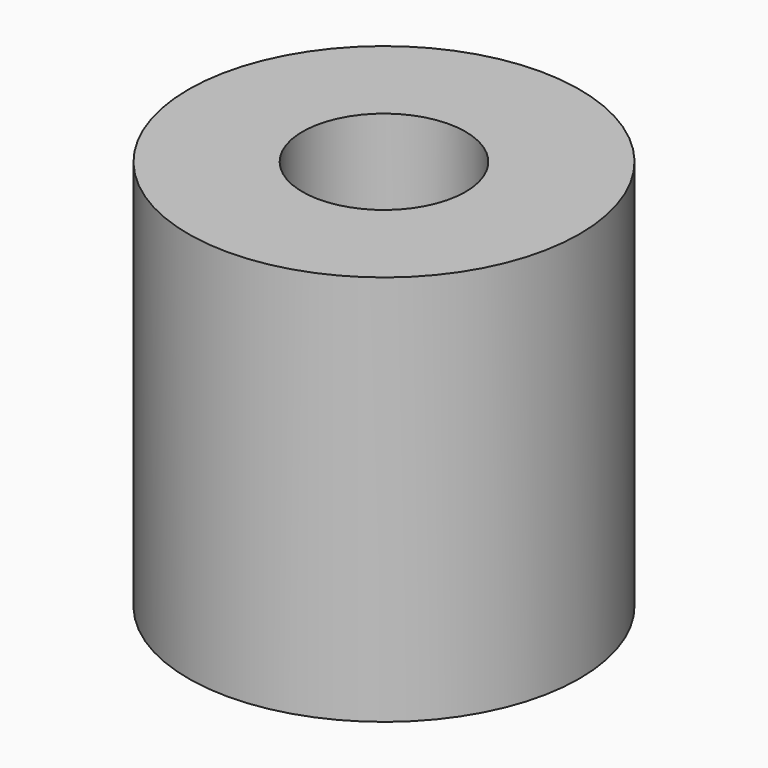
from build123d import *

# Parameters (mm, degrees)
CYLINDER017_R     = 1.25
CYLINDER017_DEPTH = 5
CYLINDER009_R     = 3
CYLINDER009_DEPTH = 6


with BuildPart() as obj1:
    # Cylinder017 → Cylinder017 (new body)
    with BuildSketch(Plane(origin=(10, 14, 3), x_dir=(1, 0, 0), z_dir=(0, 0, 1))):
        Circle(CYLINDER017_R)
    extrude(amount=CYLINDER017_DEPTH)


with BuildPart() as h_cut035:
    # Cylinder009 → Cylinder009 (new body)
    with BuildSketch(Plane(origin=(10, 14, 0), x_dir=(1, 0, 0), z_dir=(0, 0, 1))):
        Circle(CYLINDER009_R)
    extrude(amount=CYLINDER009_DEPTH)

    # Cut035: cut obj1
    add(obj1.part, mode=Mode.SUBTRACT)


with BuildPart() as h_cut035_1:
    # Cut035 placement: moved
    add(h_cut035.part.moved(Location((40, 12.5, 0))))


solid = h_cut035_1.part
